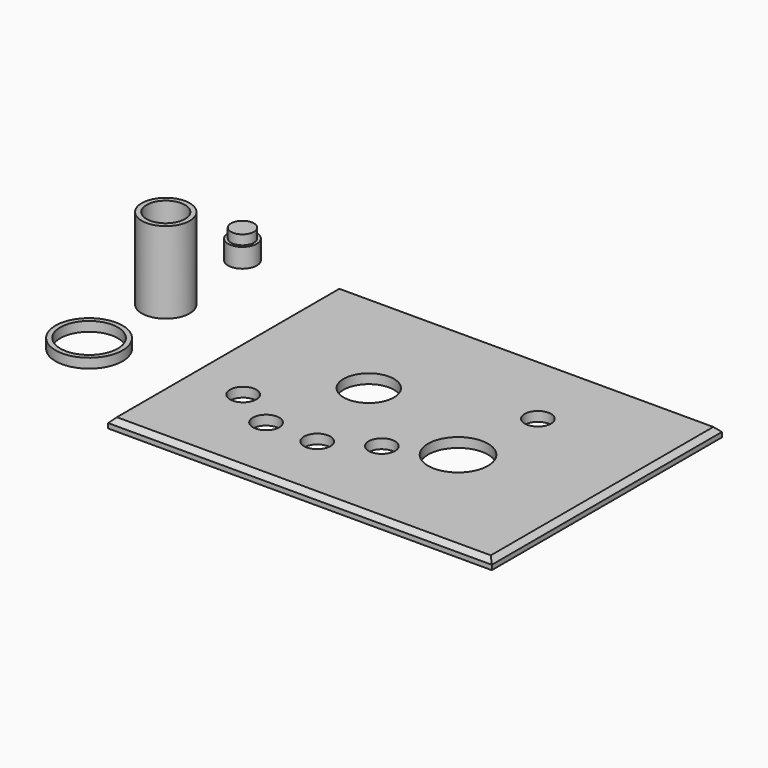
from build123d import *

# Parameters (mm, degrees)
SKETCH_W          = 80
SKETCH_H          = 60
SKETCH_R          = 5.25
SKETCH_R_2        = 2.75
SKETCH_R_3        = 6.25
EXTRUDE_DEPTH     = 2
CHAMFER_SIZE      = 1
CYLINDER001_R     = 2.4
CYLINDER001_DEPTH = 2
CYLINDER_R        = 3
CYLINDER_DEPTH    = 4
TUBE_R            = 5
TUBE_R_2          = 4
TUBE_DEPTH        = 17
TUBE001_R         = 7
TUBE001_R_2       = 6
TUBE001_DEPTH     = 2


with BuildPart() as panel:
    # Sketch → Extrude (new body)
    with BuildSketch(Plane.XY):
        with Locations((40, -30)):
            Rectangle(SKETCH_W, SKETCH_H)
        with Locations((26.64, -25.37)):
            Circle(SKETCH_R, mode=Mode.SUBTRACT)
        with Locations((12.07, -39.92)):
            Circle(SKETCH_R_2, mode=Mode.SUBTRACT)
        with Locations((21.14, -45.27)):
            Circle(SKETCH_R_2, mode=Mode.SUBTRACT)
        with Locations((31.81, -45.27)):
            Circle(SKETCH_R_2, mode=Mode.SUBTRACT)
        with Locations((41.07, -40.01)):
            Circle(SKETCH_R_2, mode=Mode.SUBTRACT)
        with Locations((54.89, -16.6)):
            Circle(SKETCH_R_2, mode=Mode.SUBTRACT)
        with Locations((52.67, -34.64)):
            Circle(SKETCH_R_3, mode=Mode.SUBTRACT)
    extrude(amount=EXTRUDE_DEPTH)

    # Chamfer
    chamfer_edges = [panel.edges().sort_by_distance(p)[0] for p in [
        (40, 0, 2),
        (80, -30, 2),
        (40, -60, 2),
        (0, -30, 2),
    ]]
    chamfer(chamfer_edges, length=CHAMFER_SIZE)


with BuildPart() as cylinder001:
    # Cylinder001 → Cylinder001 (new body)
    with BuildSketch(Plane(origin=(-20, 0, 4), x_dir=(1, 0, 0), z_dir=(0, 0, 1))):
        Circle(CYLINDER001_R)
    extrude(amount=CYLINDER001_DEPTH)


with BuildPart() as sphere:
    # Sphere → Sphere (revolve)
    with BuildSketch(Plane(origin=(-20, 0, 0), x_dir=(1, 0, 0), z_dir=(0, -1, 0))):
        with BuildLine():
            ThreePointArc((0, -2.75), (2.75, 0), (0, 2.75))
            Line((0, 2.75), (0, -2.75))
        make_face()
    revolve(axis=Axis((-20, 0, 0), (0, 0, 1)))


with BuildPart() as lightpipe:
    # Cylinder → Cylinder (new body)
    with BuildSketch(Plane(origin=(-20, 0, 0), x_dir=(1, 0, 0), z_dir=(0, 0, 1))):
        Circle(CYLINDER_R)
    extrude(amount=CYLINDER_DEPTH)

    # Cut: cut Sphere
    add(sphere.part, mode=Mode.SUBTRACT)

    # Fusion: union Cylinder001
    add(cylinder001.part)


with BuildPart() as shroud:
    # Tube → Tube (new body)
    with BuildSketch(Plane(origin=(-20, -20, 0), x_dir=(1, 0, 0), z_dir=(0, 0, 1))):
        Circle(TUBE_R)
        Circle(TUBE_R_2, mode=Mode.SUBTRACT)
    extrude(amount=TUBE_DEPTH)


with BuildPart() as shim:
    # Tube001 → Tube001 (new body)
    with BuildSketch(Plane(origin=(-20, -40, 0), x_dir=(1, 0, 0), z_dir=(0, 0, 1))):
        Circle(TUBE001_R)
        Circle(TUBE001_R_2, mode=Mode.SUBTRACT)
    extrude(amount=TUBE001_DEPTH)


solid = Compound([panel.part, lightpipe.part, shroud.part, shim.part])
